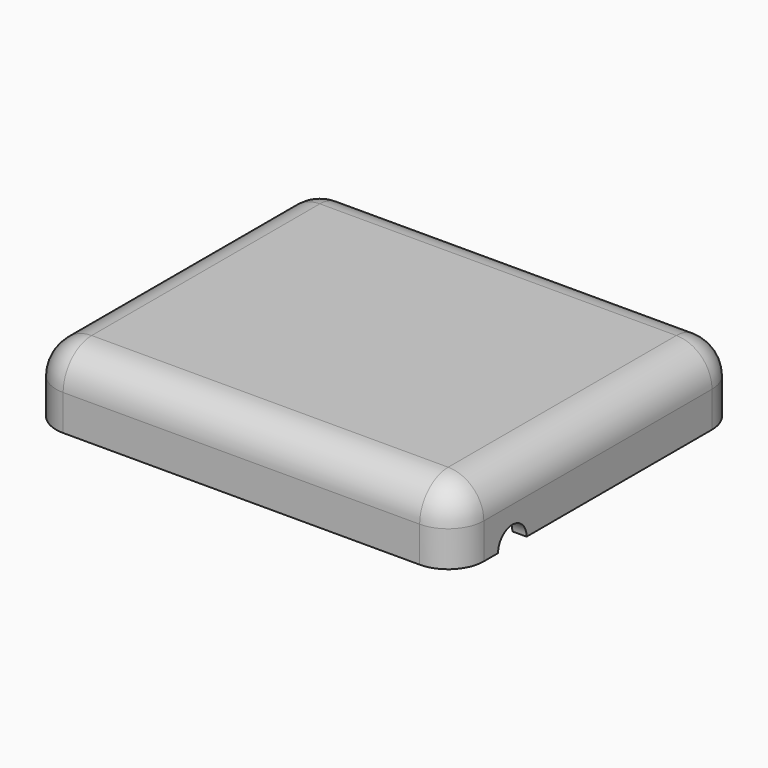
from build123d import *

# Parameters (mm, degrees)
F1_DEPTH  = 12.7
F2_R      = 6.35
F3_T      = -2.54
F4_R      = 3.175
F5_DEPTH  = 73.66
F7_R      = 3.175
F8_DEPTH  = 10.16
F9_R      = 1.5875
F10_DEPTH = 6.35


with BuildPart() as f1:
    # F0 (on Top) → F1 (new body)
    with BuildSketch(Plane.XY):
        with BuildLine():
            Line((-31.75, -31.75), (31.75, -31.75))
            ThreePointArc((31.75, -31.75), (36.2401280605, -29.8901280605), (38.1, -25.4))
            Line((38.1, -25.4), (38.1, 25.4))
            ThreePointArc((38.1, 25.4), (36.2401280605, 29.8901280605), (31.75, 31.75))
            Line((31.75, 31.75), (-31.75, 31.75))
            ThreePointArc((-31.75, 31.75), (-36.2401280605, 29.8901280605), (-38.1, 25.4))
            Line((-38.1, 25.4), (-38.1, -25.4))
            ThreePointArc((-38.1, -25.4), (-36.2401280605, -29.8901280605), (-31.75, -31.75))
        make_face()
    extrude(amount=F1_DEPTH)

    # F2
    f2_edges = [f1.edges().sort_by_distance(p)[0] for p in [
        (0, -31.75, 12.7),
        (36.240128, -29.890128, 12.7),
        (38.1, 0, 12.7),
        (36.240128, 29.890128, 12.7),
        (0, 31.75, 12.7),
        (-36.240128, 29.890128, 12.7),
        (-38.1, 0, 12.7),
        (-36.240128, -29.890128, 12.7),
    ]]
    fillet(f2_edges, radius=F2_R)

    # F3
    f3_openings = [f1.faces().sort_by_distance(p)[0] for p in [
        (0, 0, 0),
    ]]
    offset(amount=F3_T, openings=f3_openings)

    # F4 (on face) → F5 (cut, through all)
    with BuildSketch(Plane.YZ.offset(38.1)):
        with Locations((-19.05, 0)):
            Circle(F4_R)
    extrude(amount=-F5_DEPTH, mode=Mode.SUBTRACT)

    # F7 (on offset) → F8 (join, through all)
    with BuildSketch(Plane(origin=(0, 0, 10.16), x_dir=(1, 0, 0), z_dir=(0, 0, -1))):
        with Locations((-31.5977446735, 25.4)):
            Circle(F7_R)
        with Locations((-31.5977446735, -25.4)):
            Circle(F7_R)
        with Locations((31.9022553265, 25.4)):
            Circle(F7_R)
        with Locations((31.9022553265, -25.4)):
            Circle(F7_R)
    extrude(amount=F8_DEPTH)

    # F9 (on face) → F10 (cut)
    with BuildSketch(Plane(origin=(0, 0, 0), x_dir=(1, 0, 0), z_dir=(0, 0, -1))):
        with Locations((-31.5977446735, 25.4)):
            Circle(F9_R)
        with Locations((-31.5977446735, -25.4)):
            Circle(F9_R)
        with Locations((31.9022553265, 25.4)):
            Circle(F9_R)
        with Locations((31.9022553265, -25.4)):
            Circle(F9_R)
    extrude(amount=-F10_DEPTH, mode=Mode.SUBTRACT)


solid = f1.part
